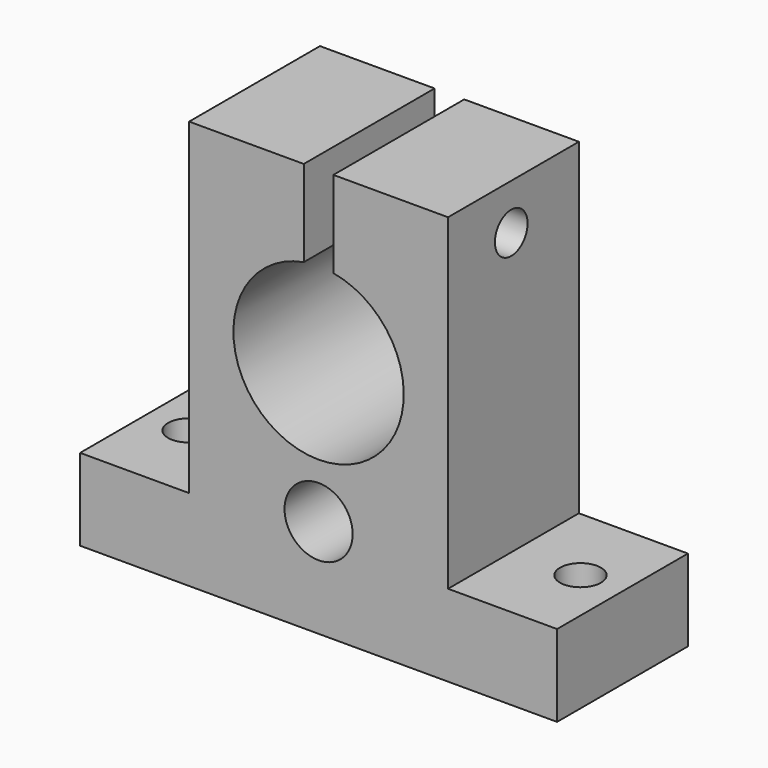
from build123d import *

# Parameters (mm, degrees)
F0_R     = 5
F1_DEPTH = 24
F3_D     = 6
F5_D     = 6


with BuildPart() as f1:
    # F0 (on Front) → F1 (new body)
    with BuildSketch(Plane.XZ):
        with BuildLine():
            Line((18.38709, 38.646828), (1.561872, 38.646828))
            Line((1.561872, 38.646828), (1.561872, -9.353172))
            Line((1.561872, -9.353172), (-14.438128, -9.353172))
            Line((-14.438128, -9.353172), (-14.438128, -21.353172))
            Line((-14.438128, -21.353172), (1.561872, -21.353172))
            Line((1.561872, -21.353172), (39.561872, -21.353172))
            Line((39.561872, -21.353172), (55.561872, -21.353172))
            Line((55.561872, -21.353172), (55.561872, -9.353172))
            Line((55.561872, -9.353172), (39.561872, -9.353172))
            Line((39.561872, -9.353172), (39.561872, 38.646828))
            Line((39.561872, 38.646828), (22.736653, 38.646828))
            Line((22.736653, 38.646828), (22.736653, 25.956187))
            ThreePointArc((22.736653, 25.956187), (20.561872, 1.146828), (18.38709, 25.956187))
            Line((18.38709, 25.956187), (18.38709, 38.646828))
        make_face()
        with Locations((20.561872, -6.853172)):
            Circle(F0_R, mode=Mode.SUBTRACT)
    extrude(amount=F1_DEPTH)

    # F3 (through all)
    with Locations(Plane.YZ.offset(39.561872)):
        with Locations((-12.408947, 31.925292)):
            Hole(F3_D / 2)

    # F5 (through all)
    with Locations(Plane.XY.offset(-9.353172)):
        with Locations((-8.209684, -11.887997), (49.306241, -11.887997)):
            Hole(F5_D / 2)


solid = f1.part
